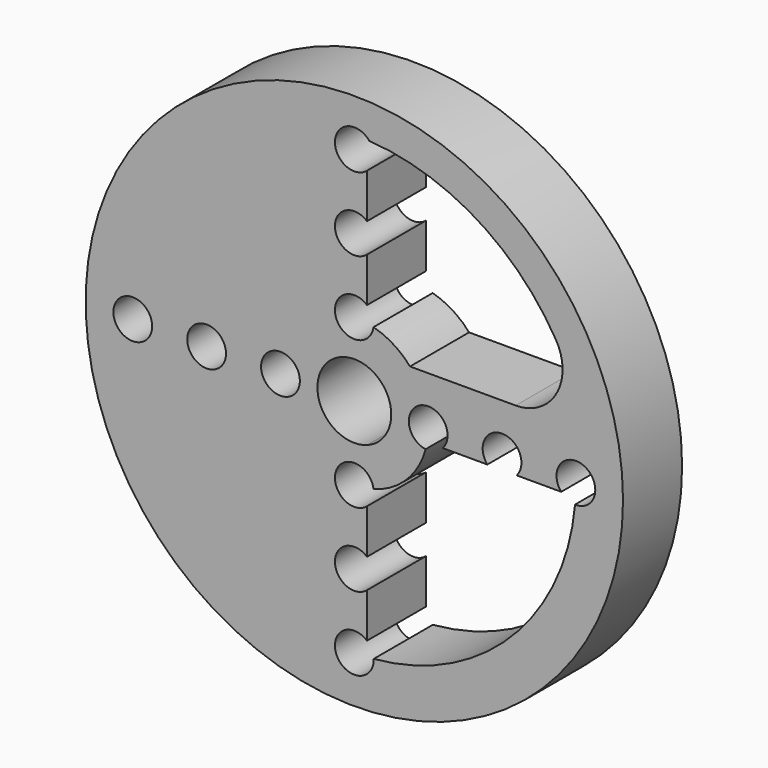
from build123d import *

# Parameters (mm, degrees)
F0_R     = 29.105
F1_DEPTH = 8
F2_D     = 4.2
F2_DEPTH = 12.7
F2_TIP   = 1.2618073
F3_R     = 5.08


with BuildPart() as f1:
    # F0 (on Front) → F1 (new body)
    with BuildSketch(Plane.XZ):
        Circle(F0_R)
        with BuildLine():
            ThreePointArc((25.3854070023, 0), (18.4286183858, -17.4586629804), (1.3712233387, -25.3483458085))
            ThreePointArc((1.3712233387, -25.3483458085), (-25.3854070023, 0), (1.3712233387, 25.3483458085))
            ThreePointArc((1.3712233387, 25.3483458085), (16.5113444887, 19.2819706422), (24.8353761494, 5.255756862))
            ThreePointArc((24.8353761494, 5.255756862), (25.2475248319, 2.6422298411), (25.3854070023, 0))
        make_face(mode=Mode.SUBTRACT)
        with BuildLine():
            Line((1.3712233387, -23.9607960334), (1.3712233387, -15.9411337914))
            ThreePointArc((1.3712233387, -15.9411337914), (-16, 0), (1.3712233387, 15.9411337914))
            Line((1.3712233387, 15.9411337914), (1.3712233387, 23.9607960334))
            ThreePointArc((1.3712233387, 23.9607960334), (-24, 0), (1.3712233387, -23.9607960334))
        make_face()
        with BuildLine():
            Line((1.3712233387, -15.9411337914), (1.3712233387, -7.8816081199))
            ThreePointArc((1.3712233387, -7.8816081199), (-8, 0), (1.3712233387, 7.8816081199))
            Line((1.3712233387, 7.8816081199), (1.3712233387, 15.9411337914))
            ThreePointArc((1.3712233387, 15.9411337914), (-16, 0), (1.3712233387, -15.9411337914))
        make_face()
        with BuildLine():
            ThreePointArc((1.3712233387, -3.7576251217), (-3.2775671888, 2.2929355252), (4, 0))
            ThreePointArc((4, 0), (3.9389053429, -0.6964371472), (3.75748765, -1.3716))
            Line((3.75748765, -1.3716), (7.88154258, -1.3716))
            ThreePointArc((7.88154258, -1.3716), (7.970330628, -0.6883528747), (8, 0))
            ThreePointArc((8, 0), (7.4916851205, 2.8061814011), (6.031336486, 5.255756862))
            Line((6.031336486, 5.255756862), (1.3712233387, 5.255756862))
            Line((1.3712233387, 5.255756862), (1.3712233387, 7.8816081199))
            ThreePointArc((1.3712233387, 7.8816081199), (-8, 0), (1.3712233387, -7.8816081199))
            Line((1.3712233387, -7.8816081199), (1.3712233387, -3.7576251217))
        make_face()
        with BuildLine():
            ThreePointArc((1.3712233387, -3.7576251217), (-3.2775671888, 2.2929355252), (4, 0))
            ThreePointArc((4, 0), (3.9389053429, -0.6964371472), (3.75748765, -1.3716))
            Line((3.75748765, -1.3716), (7.88154258, -1.3716))
            ThreePointArc((7.88154258, -1.3716), (7.970330628, -0.6883528747), (8, 0))
            ThreePointArc((8, 0), (7.4916851205, 2.8061814011), (6.031336486, 5.255756862))
            Line((6.031336486, 5.255756862), (1.3712233387, 5.255756862))
            Line((1.3712233387, 5.255756862), (1.3712233387, 7.8816081199))
            ThreePointArc((1.3712233387, 7.8816081199), (-8, 0), (1.3712233387, -7.8816081199))
            Line((1.3712233387, -7.8816081199), (1.3712233387, -3.7576251217))
        make_face()
        with BuildLine():
            Line((1.3712233387, -25.3483458085), (1.3712233387, -23.9607960334))
            ThreePointArc((1.3712233387, -23.9607960334), (-24, 0), (1.3712233387, 23.9607960334))
            Line((1.3712233387, 23.9607960334), (1.3712233387, 25.3483458085))
            ThreePointArc((1.3712233387, 25.3483458085), (-25.3854070023, 0), (1.3712233387, -25.3483458085))
        make_face()
        with BuildLine():
            ThreePointArc((23.960774475, -1.3716), (16.9704293601, -16.9706961358), (1.3712233387, -23.9607960334))
            Line((1.3712233387, -23.9607960334), (1.3712233387, -25.3483458085))
            ThreePointArc((1.3712233387, -25.3483458085), (18.4286183858, -17.4586629804), (25.3854070023, 0))
            ThreePointArc((25.3854070023, 0), (25.2475248319, 2.6422298411), (24.8353761494, 5.255756862))
            Line((24.8353761494, 5.255756862), (23.4174511808, 5.255756862))
            ThreePointArc((23.4174511808, 5.255756862), (23.8539182142, 2.6439716016), (24, 0))
            ThreePointArc((24, 0), (23.9901916145, -0.6860803892), (23.960774475, -1.3716))
        make_face()
        with BuildLine():
            ThreePointArc((8, 0), (7.970330628, -0.6883528747), (7.88154258, -1.3716))
            Line((7.88154258, -1.3716), (15.9411013873, -1.3716))
            ThreePointArc((15.9411013873, -1.3716), (15.9852685651, -0.686432008), (16, 0))
            ThreePointArc((16, 0), (15.7764756741, 2.6651107487), (15.1121480871, 5.255756862))
            Line((15.1121480871, 5.255756862), (6.031336486, 5.255756862))
            ThreePointArc((6.031336486, 5.255756862), (7.4916851205, 2.8061814011), (8, 0))
        make_face()
        with BuildLine():
            ThreePointArc((16, 0), (15.9852685651, -0.686432008), (15.9411013873, -1.3716))
            Line((15.9411013873, -1.3716), (23.960774475, -1.3716))
            ThreePointArc((23.960774475, -1.3716), (23.9901916145, -0.6860803892), (24, 0))
            ThreePointArc((24, 0), (23.8539182142, 2.6439716016), (23.4174511808, 5.255756862))
            Line((23.4174511808, 5.255756862), (15.1121480871, 5.255756862))
            ThreePointArc((15.1121480871, 5.255756862), (15.7764756741, 2.6651107487), (16, 0))
        make_face()
        with BuildLine():
            ThreePointArc((3.75748765, -1.3716), (2.828285359, -2.8285688834), (1.3712233387, -3.7576251217))
            Line((1.3712233387, -3.7576251217), (1.3712233387, -7.8816081199))
            ThreePointArc((1.3712233387, -7.8816081199), (5.656719077, -5.6569894187), (7.88154258, -1.3716))
            Line((7.88154258, -1.3716), (3.75748765, -1.3716))
        make_face()
        with BuildLine():
            ThreePointArc((6.031336486, 5.255756862), (3.9272441605, 6.9697025262), (1.3712233387, 7.8816081199))
            Line((1.3712233387, 7.8816081199), (1.3712233387, 5.255756862))
            Line((1.3712233387, 5.255756862), (6.031336486, 5.255756862))
        make_face()
    extrude(amount=-F1_DEPTH)

    # F2
    with Locations(Plane.XZ):
        with Locations((0, 24), (24, 0), (0, -24), (-24, 0), (0, 16), (16, 0), (0, -16), (-16, 0), (0, 8), (8, 0), (0, -8), (-8, 0)):
            Hole(F2_D / 2, depth=F2_DEPTH)
            with Locations((0, 0, -(F2_DEPTH + F2_TIP / 2))):  # 118° drill point
                Cone(0, F2_D / 2, F2_TIP, mode=Mode.SUBTRACT)

    # F3
    f3_edges = [f1.edges().sort_by_distance(p)[0] for p in [
        (24.835376, 4, 5.255757),
    ]]
    fillet(f3_edges, radius=F3_R)


solid = f1.part
